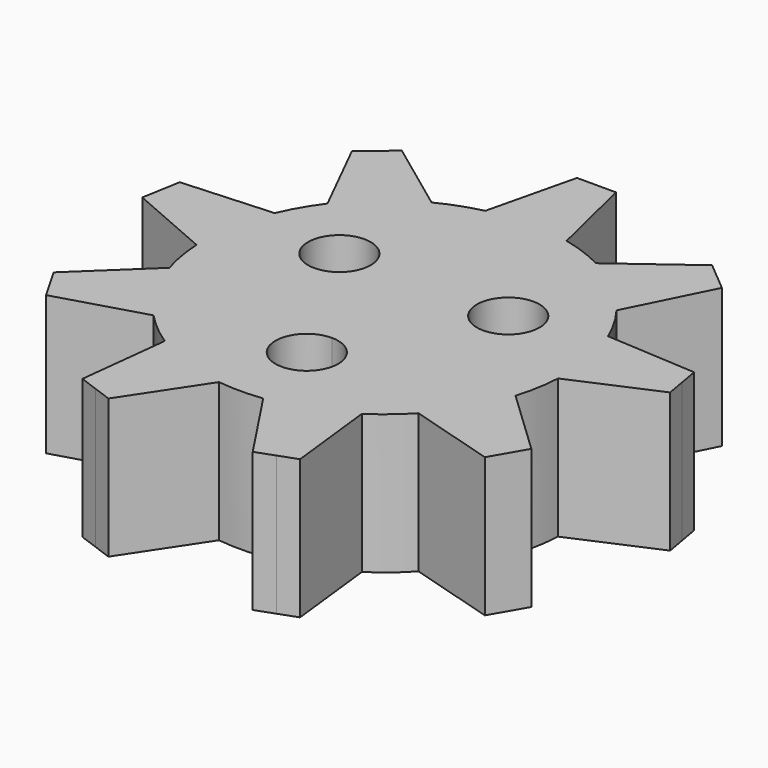
from build123d import *

# Parameters (mm, degrees)
F0_R     = 1.125
F1_DEPTH = 5


with BuildPart() as f1:
    # F0 (on Top) → F1 (new body)
    with BuildSketch(Plane.XY):
        with BuildLine():
            ThreePointArc((6.491202, -0.338068), (6.4978, -0.169091), (6.5, 0))
            ThreePointArc((6.5, 0), (6.369722, 1.294854), (5.984109, 2.537802))
            ThreePointArc((5.984109, 2.537802), (5.629165, 3.25), (5.189856, 3.913489))
            ThreePointArc((5.189856, 3.913489), (4.178119, 4.979289), (2.952826, 5.79058))
            ThreePointArc((2.952826, 5.79058), (2.223131, 6.108002), (1.460118, 6.333882))
            ThreePointArc((1.460118, 6.333882), (0.734769, 6.458337), (0, 6.5))
            ThreePointArc((0, 6.5), (-0.734769, 6.458337), (-1.460118, 6.333882))
            ThreePointArc((-1.460118, 6.333882), (-2.223131, 6.108002), (-2.952826, 5.79058))
            ThreePointArc((-2.952826, 5.79058), (-4.178119, 4.979289), (-5.189856, 3.913489))
            ThreePointArc((-5.189856, 3.913489), (-5.629165, 3.25), (-5.984109, 2.537802))
            ThreePointArc((-5.984109, 2.537802), (-6.40125, 1.128713), (-6.491202, -0.338068))
            ThreePointArc((-6.491202, -0.338068), (-6.40125, -1.128713), (-6.215361, -1.902442))
            ThreePointArc((-6.215361, -1.902442), (-5.629165, -3.25), (-4.755243, -4.43144))
            ThreePointArc((-4.755243, -4.43144), (-4.178119, -4.979289), (-3.538377, -5.452512))
            ThreePointArc((-3.538377, -5.452512), (-2.223131, -6.108002), (-0.794253, -6.451291))
            ThreePointArc((-0.794253, -6.451291), (0, -6.5), (0.794253, -6.451291))
            ThreePointArc((0.794253, -6.451291), (2.223131, -6.108002), (3.538377, -5.452512))
            ThreePointArc((3.538377, -5.452512), (4.178119, -4.979289), (4.755243, -4.43144))
            ThreePointArc((4.755243, -4.43144), (5.629165, -3.25), (6.215361, -1.902442))
            ThreePointArc((6.215361, -1.902442), (6.40125, -1.128713), (6.491202, -0.338068))
        make_face()
        with BuildLine():
            ThreePointArc((0, -2.375), (0.795495, -2.704505), (1.125, -3.5))
            ThreePointArc((1.125, -3.5), (-0.795495, -4.295495), (0, -2.375))
        make_face(mode=Mode.SUBTRACT)
        with Locations((-3.031089, 1.75)):
            Circle(F0_R, mode=Mode.SUBTRACT)
        with Locations((3.031089, 1.75)):
            Circle(F0_R, mode=Mode.SUBTRACT)
        with BuildLine():
            Line((-2.591407, -9.166494), (-0.794253, -6.451291))
            ThreePointArc((-0.794253, -6.451291), (-2.223131, -6.108002), (-3.538377, -5.452512))
            Line((-3.538377, -5.452512), (-3.906976, -8.687666))
            Line((-3.906976, -8.687666), (-3.249191, -8.92708))
            Line((-3.249191, -8.92708), (-2.591407, -9.166494))
        make_face()
        with BuildLine():
            Line((3.906976, -8.687666), (3.538377, -5.452512))
            ThreePointArc((3.538377, -5.452512), (2.223131, -6.108002), (0.794253, -6.451291))
            Line((0.794253, -6.451291), (2.591407, -9.166494))
            Line((2.591407, -9.166494), (3.249191, -8.92708))
            Line((3.249191, -8.92708), (3.906976, -8.687666))
        make_face()
        with BuildLine():
            Line((8.577241, -4.143782), (6.215361, -1.902442))
            ThreePointArc((6.215361, -1.902442), (5.629165, -3.25), (4.755243, -4.43144))
            Line((4.755243, -4.43144), (7.877241, -5.356218))
            Line((7.877241, -5.356218), (8.227241, -4.75))
            Line((8.227241, -4.75), (8.577241, -4.143782))
        make_face()
        with BuildLine():
            ThreePointArc((5.984109, 2.537802), (6.369722, 1.294854), (6.5, 0))
            ThreePointArc((6.5, 0), (6.4978, -0.169091), (6.491202, -0.338068))
            Line((6.491202, -0.338068), (9.477227, 0.960292))
            Line((9.477227, 0.960292), (9.355674, 1.649658))
            Line((9.355674, 1.649658), (9.23412, 2.339023))
            Line((9.23412, 2.339023), (5.984109, 2.537802))
        make_face()
        with BuildLine():
            ThreePointArc((2.952826, 5.79058), (4.178119, 4.979289), (5.189856, 3.913489))
            Line((5.189856, 3.913489), (6.642713, 6.827471))
            Line((6.642713, 6.827471), (6.106482, 7.277422))
            Line((6.106482, 7.277422), (5.570251, 7.727374))
            Line((5.570251, 7.727374), (2.952826, 5.79058))
        make_face()
        with BuildLine():
            ThreePointArc((-1.460118, 6.333882), (-0.734769, 6.458337), (0, 6.5))
            Line((0, 6.5), (0, 9.5))
            Line((0, 9.5), (-0.7, 9.5))
            Line((-0.7, 9.5), (-1.460118, 6.333882))
        make_face()
        with BuildLine():
            ThreePointArc((0, 6.5), (0.734769, 6.458337), (1.460118, 6.333882))
            Line((1.460118, 6.333882), (0.7, 9.5))
            Line((0.7, 9.5), (0, 9.5))
            Line((0, 9.5), (0, 6.5))
        make_face()
        with BuildLine():
            ThreePointArc((-5.189856, 3.913489), (-4.178119, 4.979289), (-2.952826, 5.79058))
            Line((-2.952826, 5.79058), (-5.570251, 7.727374))
            Line((-5.570251, 7.727374), (-6.106482, 7.277422))
            Line((-6.106482, 7.277422), (-6.642713, 6.827471))
            Line((-6.642713, 6.827471), (-5.189856, 3.913489))
        make_face()
        with BuildLine():
            ThreePointArc((-6.491202, -0.338068), (-6.40125, 1.128713), (-5.984109, 2.537802))
            Line((-5.984109, 2.537802), (-9.23412, 2.339023))
            Line((-9.23412, 2.339023), (-9.355674, 1.649658))
            Line((-9.355674, 1.649658), (-9.477227, 0.960292))
            Line((-9.477227, 0.960292), (-6.491202, -0.338068))
        make_face()
        with BuildLine():
            Line((-7.877241, -5.356218), (-4.755243, -4.43144))
            ThreePointArc((-4.755243, -4.43144), (-5.629165, -3.25), (-6.215361, -1.902442))
            Line((-6.215361, -1.902442), (-8.577241, -4.143782))
            Line((-8.577241, -4.143782), (-8.227241, -4.75))
            Line((-8.227241, -4.75), (-7.877241, -5.356218))
        make_face()
    extrude(amount=F1_DEPTH)


solid = f1.part
